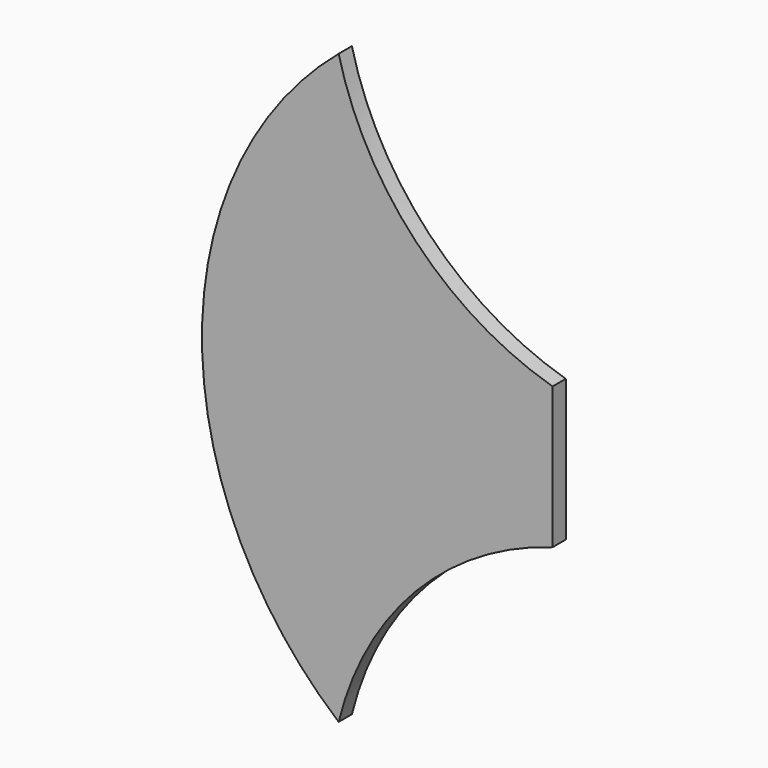
from build123d import *

# Parameters (mm, degrees)
F1_DEPTH = 1.5


with BuildPart() as f1:
    # F0 (on Front) → F1 (new body)
    with BuildSketch(Plane.XZ):
        with BuildLine():
            Line((0, -6.417915), (0, 0))
            Line((0, 0), (0, 6.417915))
            ThreePointArc((0, 6.417915), (-12.39674, 13.959424), (-19.396365, 26.670001))
            ThreePointArc((-19.396365, 26.670001), (-31.788389, 0), (-19.396365, -26.670001))
            ThreePointArc((-19.396365, -26.670001), (-12.39674, -13.959424), (0, -6.417915))
        make_face()
    extrude(amount=F1_DEPTH)


solid = f1.part
